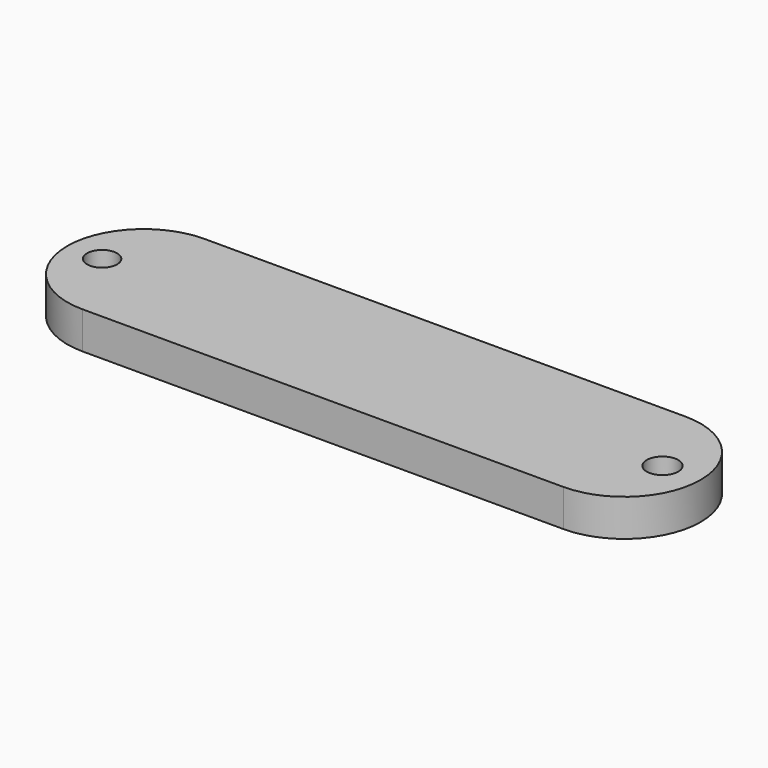
from build123d import *

# Parameters (mm, degrees)
F0_W     = 65.854528
F0_H     = 20.880706
F0_R     = 2.159
F0_R_2   = 2.058015
F1_DEPTH = 5.08


with BuildPart() as f1:
    # F0 (on Top) → F1 (new body)
    with BuildSketch(Plane.XY):
        Rectangle(F0_W, F0_H)
        with BuildLine():
            Line((32.927264, 10.440353), (32.927264, -10.440353))
            ThreePointArc((32.927264, -10.440353), (43.367617, 0), (32.927264, 10.440353))
        make_face()
        with Locations((38.141479, 0)):
            Circle(F0_R, mode=Mode.SUBTRACT)
        with BuildLine():
            ThreePointArc((-32.927264, 10.440353), (-43.367617, 0), (-32.927264, -10.440353))
            Line((-32.927264, -10.440353), (-32.927264, 10.440353))
        make_face()
        with Locations((-38.606796, 0)):
            Circle(F0_R_2, mode=Mode.SUBTRACT)
    extrude(amount=F1_DEPTH)


solid = f1.part
